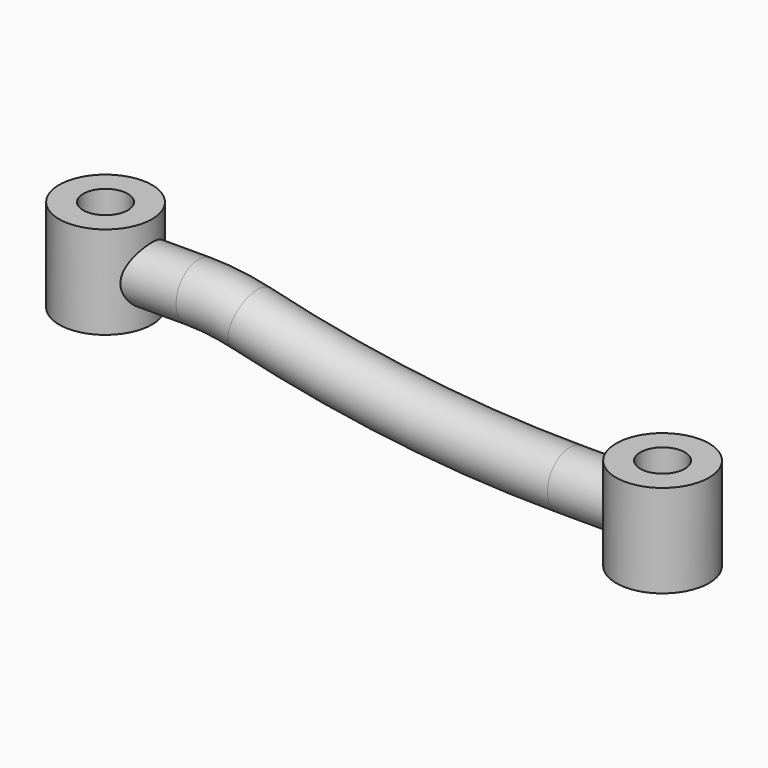
from build123d import *

# Parameters (mm, degrees)
F0_R     = 12.5
F0_R_2   = 6
F1_DEPTH = 25
F2_DEPTH = 12.5
F4_R     = 7.5
F6_R     = 6
F7_DEPTH = 37.5010001


with BuildPart() as f1:
    # F0 (on Top) → F1 (new body)
    with BuildSketch(Plane.XY):
        Circle(F0_R)
        Circle(F0_R_2, mode=Mode.SUBTRACT)
    extrude(amount=F1_DEPTH)



with BuildPart() as f2:
    # F0 (on Top) → F2 (new body, symmetric)
    with BuildSketch(Plane.XY):
        with Locations((150, 0)):
            Circle(F0_R)
        with Locations((150, 0)):
            Circle(F0_R_2, mode=Mode.SUBTRACT)
    extrude(amount=F2_DEPTH, both=True)


with BuildPart() as f1_1:
    add(f1.part)

    add(f2.part)  # F5 merges F2
    # F5: sweep along a path in F3
    with BuildLine(Plane.XZ) as f5_path:
        Line((0, 12), (25, 12))
        ThreePointArc((25, 12), (32.1487132371, 11.5726103092), (39.1955835962, 10.2965299685))
        ThreePointArc((39.1955835962, 10.2965299685), (81.789999989, 2.5833332421), (125, 0))
        Line((125, 0), (150, 0))
    # F4 (on Right) → F5 (sweep)
    with BuildSketch(Plane.YZ):
        with Locations((0, 12)):
            Circle(F4_R)
    sweep(path=f5_path.line)

    # F6 (on face) → F7 (cut, through all)
    with BuildSketch(Plane.XY.offset(25)):
        Circle(F6_R)
        with Locations((150, 0)):
            Circle(F6_R)
    extrude(amount=-F7_DEPTH, mode=Mode.SUBTRACT)


solid = f1_1.part
